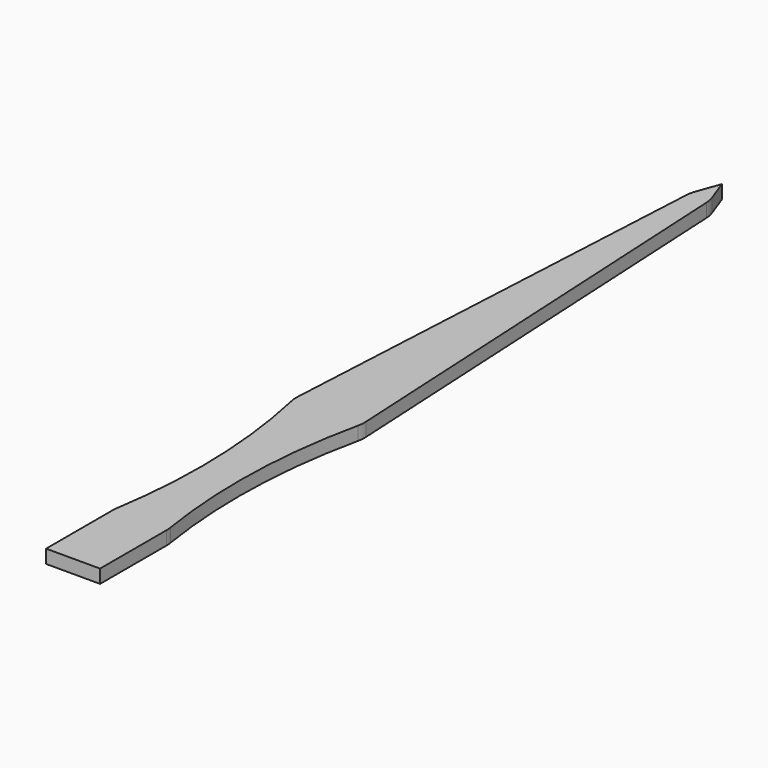
from build123d import *

# Parameters (mm, degrees)
F1_DEPTH = 2
F2_R     = 5


with BuildPart() as f1:
    # F0 (on Top) → F1 (new body)
    with BuildSketch(Plane.XY):
        with BuildLine():
            Line((-4, 12.71492), (-4, 0))
            Line((-4, 0), (0, 0))
            Line((0, 0), (4, 0))
            Line((4, 0), (4, 12.71492))
            ThreePointArc((4, 12.71492), (2.861128, 30.04824), (5.073318, 47.277495))
            Line((5.073318, 47.277495), (1.460623, 116.211824))
            Line((1.460623, 116.211824), (0, 120.224852))
            Line((0, 120.224852), (-1.460623, 116.211824))
            Line((-1.460623, 116.211824), (-5.073318, 47.277495))
            ThreePointArc((-5.073318, 47.277495), (-2.861128, 30.04824), (-4, 12.71492))
        make_face()
    extrude(amount=F1_DEPTH)

    # F2
    f2_edges = [f1.edges().sort_by_distance(p)[0] for p in [
        (-1.460623, 116.211824, 1),
        (1.460623, 116.211824, 1),
        (5.073318, 47.277495, 1),
        (-5.073318, 47.277495, 1),
        (-4, 12.71492, 1),
        (4, 12.71492, 1),
    ]]
    fillet(f2_edges, radius=F2_R)


solid = f1.part
